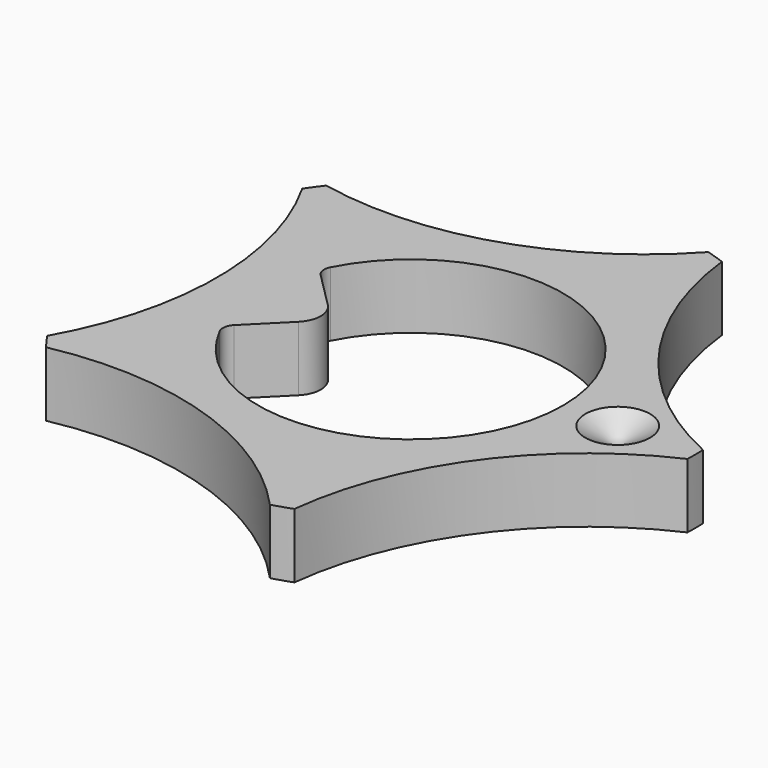
from build123d import *

# Parameters (mm, degrees)
F1_DEPTH = 0.5
F4_SCALE = 3


with BuildPart() as f1:
    # F0 (on Top) → F1 (new body)
    with BuildSketch(Plane.XY):
        with BuildLine():
            ThreePointArc((0.6081234737, 2.1142814502), (-0.4630317257, 1.4250651194), (-1.7347256805, 1.3530436147))
            ThreePointArc((-1.7347256805, 1.3530436147), (-1.7798374262, 1.2931275831), (-1.8228806624, 1.2317086913))
            ThreePointArc((-1.8228806624, 1.2317086913), (-1.4984021401, 0), (-1.8228806624, -1.2317086913))
            ThreePointArc((-1.8228806624, -1.2317086913), (-1.7798374262, -1.2931275831), (-1.7347256805, -1.3530436147))
            ThreePointArc((-1.7347256805, -1.3530436147), (-0.4646832841, -1.4263763437), (0.6048373994, -2.1152238487))
            ThreePointArc((0.6048373994, -2.1152238487), (0.6802746399, -2.0921822636), (0.7548374053, -2.0664512337))
            ThreePointArc((0.7548374053, -2.0664512337), (1.2149085882, -0.8808585803), (2.1987212669, -0.075000003))
            ThreePointArc((2.1987212669, -0.075000003), (2.2000000477, 0), (2.1987212669, 0.075000003))
            ThreePointArc((2.1987212669, 0.075000003), (1.2122351514, 0.8807449808), (0.7507612307, 2.0679356335))
            ThreePointArc((0.7507612307, 2.0679356335), (0.6798374024, 2.0923243812), (0.6081234737, 2.1142814502))
        make_face()
        with BuildLine():
            ThreePointArc((-1.0484390882, 0.5341534637), (1.1766666667, 0), (-1.0484390882, -0.5341534637))
            ThreePointArc((-1.0484390882, -0.5341534637), (-1.0581051368, -0.4731125583), (-1.0300472939, -0.4180473054))
            Line((-1.0300472939, -0.4180473054), (-0.7534213469, -0.1414213583))
            ThreePointArc((-0.7534213469, -0.1414213583), (-0.6948427023, 0), (-0.7534213469, 0.1414213583))
            Line((-0.7534213469, 0.1414213583), (-1.0300472939, 0.4180473054))
            ThreePointArc((-1.0300472939, 0.4180473054), (-1.0581051368, 0.4731125583), (-1.0484390882, 0.5341534637))
        make_face(mode=Mode.SUBTRACT)
    extrude(amount=F1_DEPTH)

    # F2 (on Front) → F3 (revolve, cut)
    with BuildSketch(Plane.XZ):
        Polygon((1.85, 0.5), (1.6, 0.5), (1.6, 0.3556624327), align=None)
    revolve(axis=Axis((1.6, 0, 0.4278312164), (0, 0, -1)), mode=Mode.SUBTRACT)


with BuildPart() as f1_1:
    # F4: moved
    add(f1.part.scale(F4_SCALE))


solid = f1_1.part
